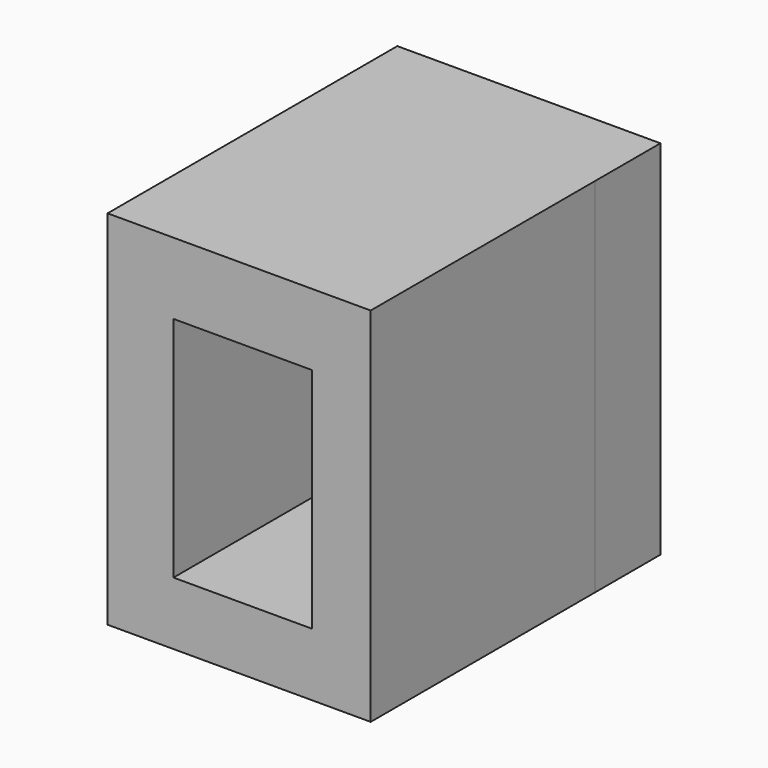
from build123d import *

# Parameters (mm, degrees)
F0_W      = 55.357791
F0_H      = 59.048325
F1_DEPTH  = 76.2
F1_FACE_W = 55.357792
F1_FACE_H = 76.2
F2_DEPTH  = 76.2
F3_W      = 29.114094
F3_H      = 47.911883
F4_DEPTH  = 76.2


with BuildPart() as f1:
    # F0 (on Top) → F1 (new body)
    with BuildSketch(Plane.XY):
        with Locations((-27.678895, -29.524162)):
            Rectangle(F0_W, F0_H)
    extrude(amount=F1_DEPTH)

    # F1_face (on face) → F2 (join)
    with BuildSketch(Plane(origin=(-27.678896, -59.048325, 38.1), x_dir=(1, 0, 0), z_dir=(0, -1, 0))):
        Rectangle(F1_FACE_W, F1_FACE_H)
    extrude(amount=-F2_DEPTH)

    # F3 (on face) → F4 (cut, through all)
    with BuildSketch(Plane.XZ.offset(59.048325)):
        with Locations((-26.931843, 37.198923)):
            Rectangle(F3_W, F3_H)
    extrude(amount=-F4_DEPTH, mode=Mode.SUBTRACT)


solid = f1.part
